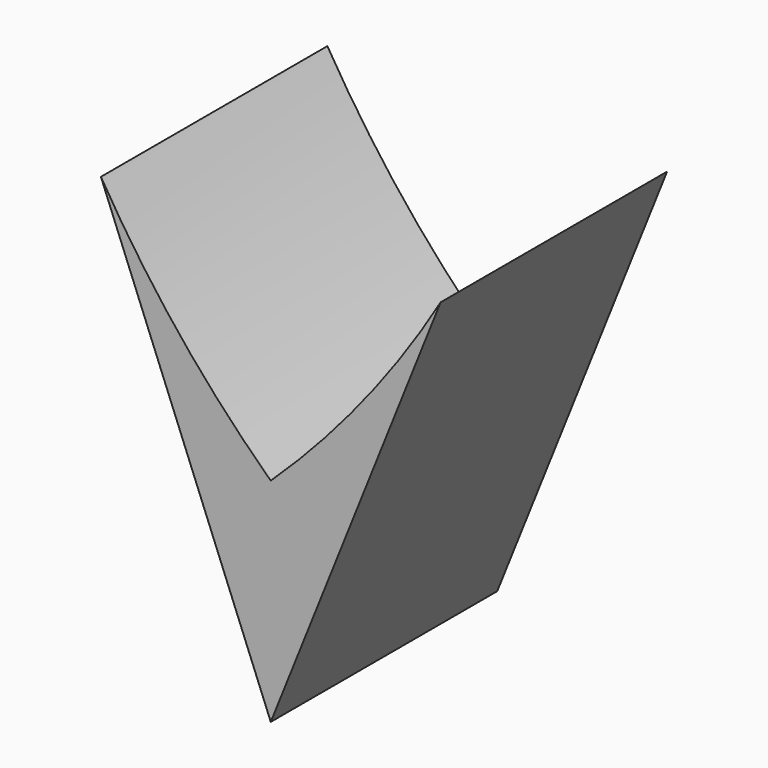
from build123d import *

# Parameters (mm, degrees)
F0_W     = 24
F0_H     = 30
F1_DEPTH = 20
F3_DEPTH = 25
F5_DEPTH = 25


with BuildPart() as f1:
    # F0 (on Front) → F1 (new body)
    with BuildSketch(Plane.XZ):
        Rectangle(F0_W, F0_H)
    extrude(amount=F1_DEPTH)

    # F2 (on face) → F3 (cut)
    with BuildSketch(Plane.XZ.offset(20)):
        with BuildLine():
            ThreePointArc((-12, 15), (-6.516982, 7.086415), (0, 0))
            ThreePointArc((0, 0), (6.516982, 7.086415), (12, 15))
            Line((12, 15), (-12, 15))
        make_face()
    extrude(amount=-F3_DEPTH, mode=Mode.SUBTRACT)

    # F4 (on face) → F5 (cut)
    with BuildSketch(Plane.XZ.offset(20)):
        Polygon((12, 15), (0, -15), (12, -15), align=None)
        Polygon((0, -15), (-12, 15), (-12, -15), align=None)
    extrude(amount=-F5_DEPTH, mode=Mode.SUBTRACT)


solid = f1.part
